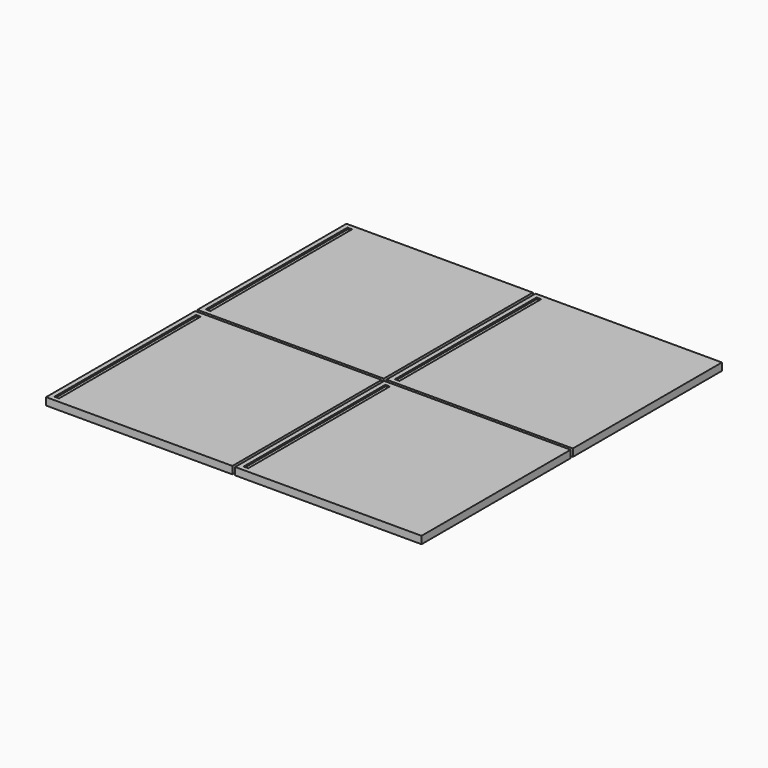
from build123d import *

# Parameters (mm, degrees)
F0_W     = 200
F0_H     = 200
F0_W_2   = 5
F0_H_2   = 190
F1_DEPTH = 8
F2_W     = 5
F2_H     = 190
F3_DEPTH = 1
F3_TAPER = 40


with BuildPart() as f1:
    # F0 (on Top) → F1 (new body)
    with BuildSketch(Plane.XY):
        Rectangle(F0_W, F0_H)
        with Locations((-92.5, 0)):
            Rectangle(F0_W_2, F0_H_2, mode=Mode.SUBTRACT)
        with Locations((-92.5, 0)):
            Rectangle(F0_W_2, F0_H_2)
    extrude(amount=F1_DEPTH)

    # F2 (on face) → F3 (cut)
    with BuildSketch(Plane.XY.offset(8)):
        with Locations((-92.5, 0)):
            Rectangle(F2_W, F2_H)
    extrude(amount=-F3_DEPTH, taper=F3_TAPER, mode=Mode.SUBTRACT)


with BuildPart() as f4_1:
    # F4: copy of F1
    add(f1.part.moved(Location((0, 203, 0))))


with BuildPart() as f5_1:
    # F5: copy of F1
    add(f1.part.moved(Location((203, 0, 0))))


with BuildPart() as f6_1:
    # F6: copy of F4_1
    add(f4_1.part.moved(Location((203, 0, 0))))


solid = Compound([f1.part, f4_1.part, f5_1.part, f6_1.part])
